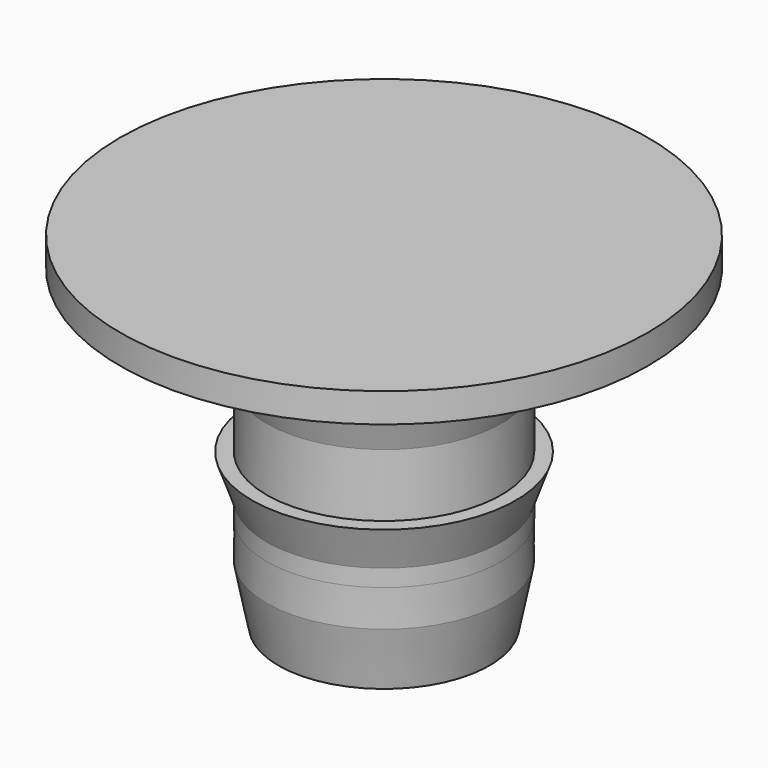
from build123d import *


with BuildPart() as f1:
    # F0 (on Front) → F1 (revolve)
    with BuildSketch(Plane.XZ):
        Polygon((-8.001124, 7.66683), (-8.001124, 6.5), (-8, 4), (-7.2, 0), (0, 0), (0, 23.5), (-18.001124, 23.5), (-18.001124, 21.5), (-10.001124, 21.5), (-8.001124, 21.5), (-8.001124, 14.782405), (-8.001124, 10.5), align=None)
        Polygon((-9.001124, 10.5), (-8.001124, 7.66683), (-8.001124, 10.5), align=None)
        Polygon((-10.001124, 21.5), (-8.001124, 14.782405), (-8.001124, 21.5), align=None)
    revolve(axis=Axis((0, 0, 11.75), (0, 0, -1)))


solid = f1.part
